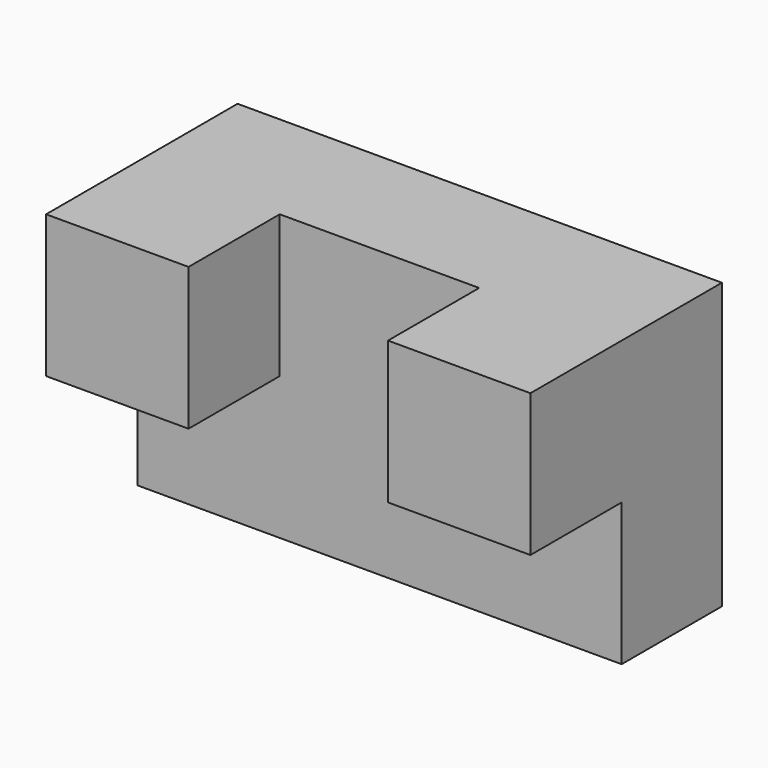
from build123d import *

# Parameters (mm, degrees)
F0_W     = 85
F0_H     = 50
F1_DEPTH = 22
F2_W     = 25
F2_H     = 25
F3_DEPTH = 20
F4_DEPTH = 20


with BuildPart() as f1:
    # F0 (on Front) → F1 (new body)
    with BuildSketch(Plane.XZ):
        with Locations((42.5, 25)):
            Rectangle(F0_W, F0_H)
    extrude(amount=F1_DEPTH)

    # F2 (on face) → F3 (join)
    with BuildSketch(Plane.XZ.offset(22)):
        with Locations((12.5, 37.5)):
            Rectangle(F2_W, F2_H)
    extrude(amount=F3_DEPTH)

    # F2 (on face) → F4 (join)
    with BuildSketch(Plane.XZ.offset(22)):
        with Locations((12.5, 37.5)):
            Rectangle(F2_W, F2_H)
        with Locations((72.5, 37.5)):
            Rectangle(F2_W, F2_H)
    extrude(amount=F4_DEPTH)


solid = f1.part
